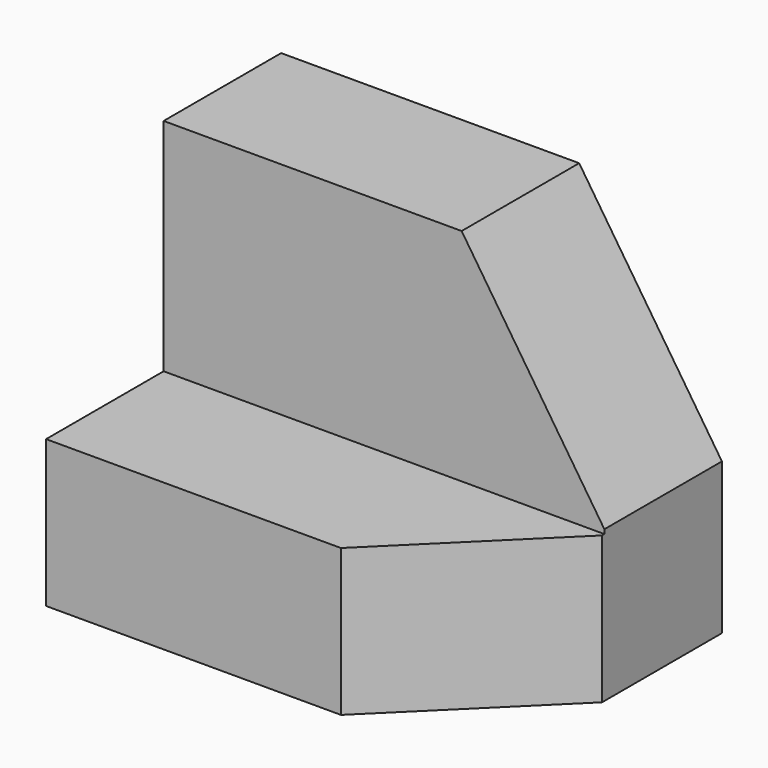
from build123d import *

# Parameters (mm, degrees)
F1_DEPTH = 38.1
F3_DEPTH = 25.4
F5_DEPTH = 25.4


with BuildPart() as f1:
    # F0 (on Right) → F1 (new body)
    with BuildSketch(Plane.YZ):
        Polygon((0, 12.7), (0, 0), (25.4, 0), (25.4, 31.75), (12.7, 31.75), (12.7, 12.7), align=None)
    extrude(amount=F1_DEPTH)

    # F2 (on Front) → F3 (cut)
    with BuildSketch(Plane.XZ):
        Polygon((38.233465, 12.868297), (38.233465, 31.918297), (25.534656, 32.092253), align=None)
    extrude(amount=-F3_DEPTH, mode=Mode.SUBTRACT)

    # F4 (on Top) → F5 (cut)
    with BuildSketch(Plane.XY):
        Polygon((38.18582, 0), (38.35402, 12.698886), (25.48582, 0), align=None)
    extrude(amount=F5_DEPTH, mode=Mode.SUBTRACT)


solid = f1.part
